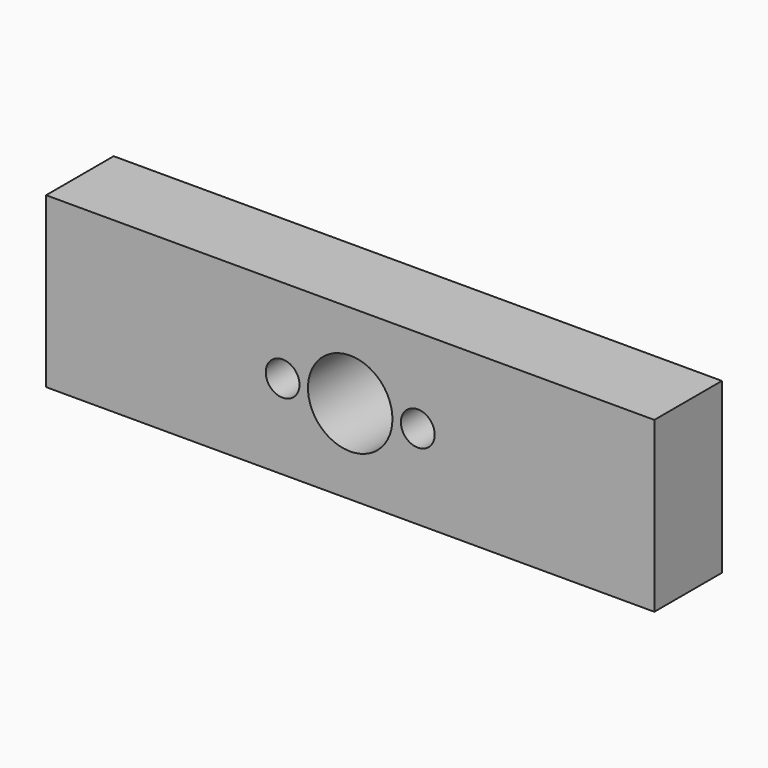
from build123d import *

# Parameters (mm, degrees)
F0_W     = 72
F0_H     = 20
F0_R     = 2
F0_R_2   = 5
F1_DEPTH = 10


with BuildPart() as f1:
    # F0 (on Front) → F1 (new body)
    with BuildSketch(Plane.XZ):
        with Locations((-36, -10)):
            Rectangle(F0_W, F0_H)
        with Locations((-44, -10)):
            Circle(F0_R, mode=Mode.SUBTRACT)
        with Locations((-36, -10)):
            Circle(F0_R_2, mode=Mode.SUBTRACT)
        with Locations((-28, -10)):
            Circle(F0_R, mode=Mode.SUBTRACT)
        with Locations((-36, -10)):
            Rectangle(F0_W, F0_H)
        with Locations((-44, -10)):
            Circle(F0_R, mode=Mode.SUBTRACT)
        with Locations((-36, -10)):
            Circle(F0_R_2, mode=Mode.SUBTRACT)
        with Locations((-28, -10)):
            Circle(F0_R, mode=Mode.SUBTRACT)
    extrude(amount=F1_DEPTH)


solid = f1.part
